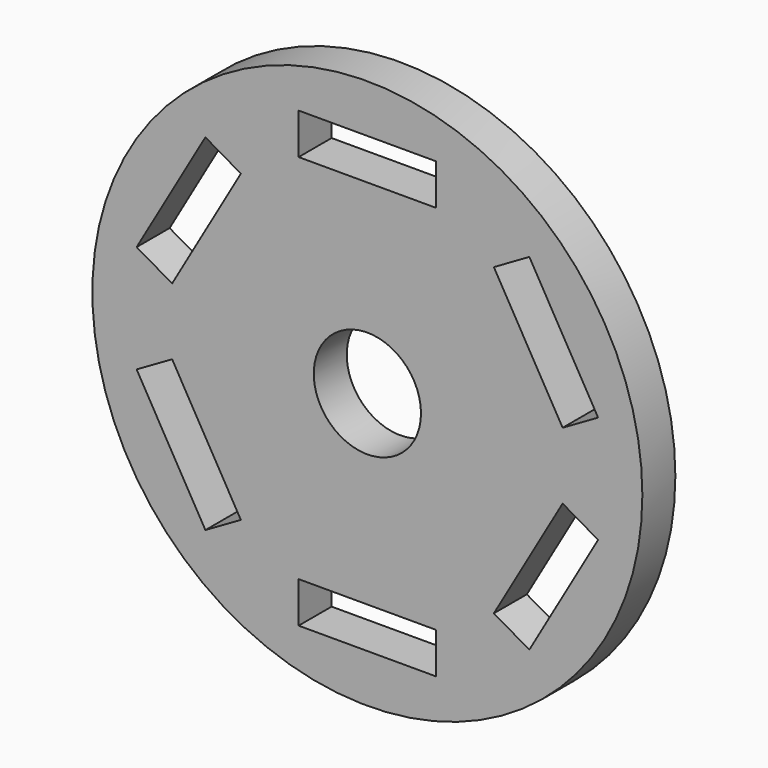
from build123d import *

# Parameters (mm, degrees)
F0_R     = 20
F0_R_2   = 3.9
F1_DEPTH = 3
F2_W     = 10
F2_H     = 2.98
F3_DEPTH = 25


with BuildPart() as f1:
    # F0 (on Front) → F1 (new body)
    with BuildSketch(Plane.XZ):
        Circle(F0_R)
        Circle(F0_R_2, mode=Mode.SUBTRACT)
    extrude(amount=F1_DEPTH)

    # F2 (on face) → F3 (cut)
    with BuildSketch(Plane.XZ.offset(3)):
        with Locations((0, -15)):
            Rectangle(F2_W, F2_H)
        Polygon((14.200003, -2.424873), (9.200003, -11.085127), (11.780759, -12.575127), (16.780759, -3.914873), align=None)
        Polygon((9.200003, 11.085127), (14.200003, 2.424873), (16.780759, 3.914873), (11.780759, 12.575127), align=None)
        with Locations((0, 15)):
            Rectangle(F2_W, F2_H)
        Polygon((-14.200003, 2.424873), (-9.200003, 11.085127), (-11.780759, 12.575127), (-16.780759, 3.914873), align=None)
        Polygon((-9.200003, -11.085127), (-14.200003, -2.424873), (-16.780759, -3.914873), (-11.780759, -12.575127), align=None)
    extrude(amount=-F3_DEPTH, mode=Mode.SUBTRACT)


solid = f1.part
